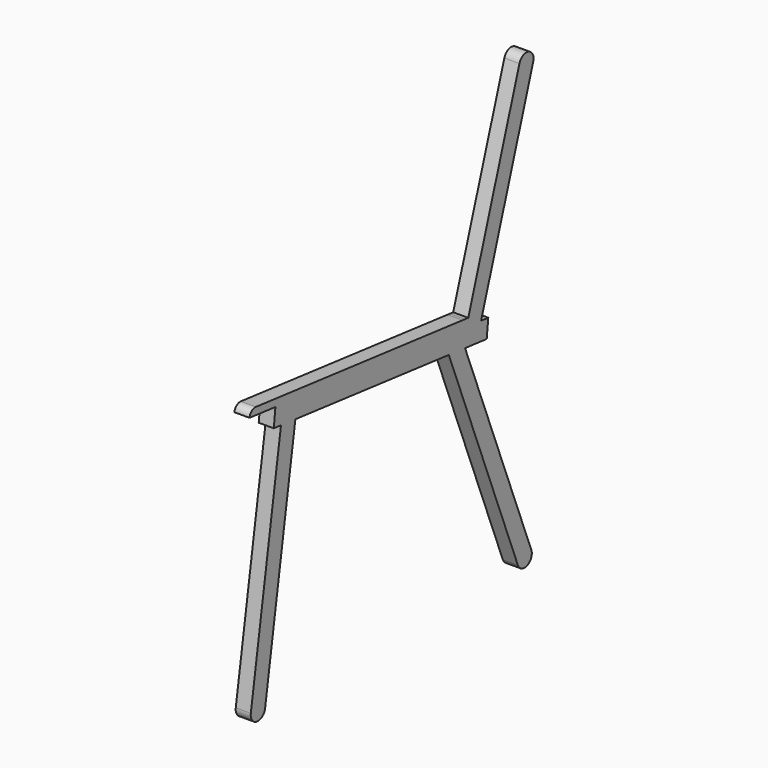
from build123d import *

# Parameters (mm, degrees)
F1_DEPTH = 25


with BuildPart() as f1:
    # F0 (on Right) → F1 (new body)
    with BuildSketch(Plane.YZ):
        with BuildLine():
            Line((24.602603, 19.439522), (-112.858058, 370.132945))
            Line((-112.858058, 370.132945), (-113.312946, 370.183488))
            Line((-113.312946, 370.183488), (-117.698107, 370.670728))
            Line((-117.698107, 370.670728), (-146.547582, 373.876225))
            Line((-146.547582, 373.876225), (-3.328384, 8.491464))
            ThreePointArc((-3.328384, 8.491464), (16.111139, 0), (24.602603, 19.439522))
        make_face()
        with BuildLine():
            Line((-527.65253, 12.470365), (-464.846842, 409.24281))
            Line((-464.846842, 409.24281), (-494.695385, 412.559315))
            Line((-494.695385, 412.559315), (-557.283606, 17.160711))
            ThreePointArc((-557.283606, 17.160711), (-544.813241, 0), (-527.65253, 12.470365))
        make_face()
        with BuildLine():
            ThreePointArc((28.543336, 730.765391), (18.888972, 749.654363), (0, 740))
            Line((0, 740), (-106.229303, 411.654881))
            ThreePointArc((-106.229303, 411.654881), (-106.738574, 409.286215), (-107.713254, 407.068124))
            Line((-107.713254, 407.068124), (-110, 400))
            Line((-110, 400), (-79.563133, 396.618126))
            Line((-79.563133, 396.618126), (-78.468997, 400))
            Line((-78.468997, 400), (28.543336, 730.765391))
        make_face()
        Polygon((-164.400516, 375.859885), (-161.087571, 405.676397), (-506.290695, 444.032299), (-509.603641, 414.215787), (-494.695385, 412.559315), (-464.846842, 409.24281), align=None)
        with BuildLine():
            Line((-107.713254, 407.068124), (-106.229303, 411.654881))
            Line((-106.229303, 411.654881), (-113.12206, 412.420742))
            Line((-113.12206, 412.420742), (-118.155908, 412.980059))
            Line((-118.155908, 412.980059), (-546.748217, 460.601427))
            ThreePointArc((-546.748217, 460.601427), (-555.569736, 458.045247), (-560, 450))
            Line((-560, 450), (-510, 444.444444))
            Line((-510, 444.444444), (-506.290695, 444.032299))
            Line((-506.290695, 444.032299), (-161.087571, 405.676397))
            Line((-161.087571, 405.676397), (-121.926605, 401.325178))
            Line((-121.926605, 401.325178), (-119.481086, 401.053454))
            ThreePointArc((-119.481086, 401.053454), (-112.694575, 402.294843), (-107.713254, 407.068124))
        make_face()
        Polygon((-79.563133, 396.618126), (-110, 400), (-119.481086, 401.053454), (-121.926605, 401.325178), (-161.087571, 405.676397), (-164.400516, 375.859885), (-146.547582, 373.876225), (-117.698107, 370.670728), (-113.312946, 370.183488), (-112.858058, 370.132945), (-67.967822, 365.145141), (-64.654877, 394.961653), align=None)
        with BuildLine():
            ThreePointArc((-107.713254, 407.068124), (-106.738574, 409.286215), (-106.229303, 411.654881))
            Line((-106.229303, 411.654881), (-107.713254, 407.068124))
        make_face()
        with BuildLine():
            Line((-110, 400), (-107.713254, 407.068124))
            ThreePointArc((-107.713254, 407.068124), (-112.694575, 402.294843), (-119.481086, 401.053454))
            Line((-119.481086, 401.053454), (-110, 400))
        make_face()
    extrude(amount=F1_DEPTH)


solid = f1.part
